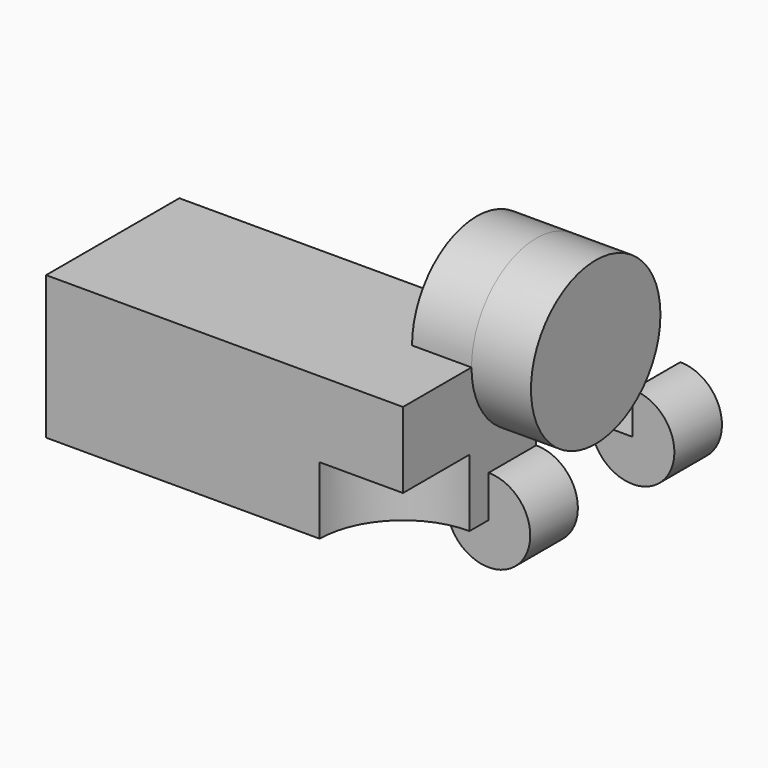
from build123d import *

# Parameters (mm, degrees)
F0_W          = 150
F0_H          = 60.1475536823
F1_DEPTH      = 70
F2_R          = 35
F3_DEPTH      = 28.3
F5_DEPTH      = 25
F6_R          = 34.0015440337
F7_DEPTH      = 25
F7_DEPTH_BACK = 25


with BuildPart() as f1:
    # F0 (on Front) → F1 (new body)
    with BuildSketch(Plane.XZ):
        Rectangle(F0_W, F0_H)
    extrude(amount=F1_DEPTH)

    # F2 (on face) → F3 (cut)
    with BuildSketch(Plane(origin=(0, 0, -30.0737768412), x_dir=(1, 0, 0), z_dir=(0, 0, -1))):
        with Locations((75, 70)):
            Circle(F2_R)
    extrude(amount=-F3_DEPTH, mode=Mode.SUBTRACT)

    # F6 (on face) → F7 (join, two sides)
    with BuildSketch(Plane.YZ.offset(75)) as f7_sk:
        with Locations((0, 30.0737768412)):
            Circle(F6_R)
    extrude(amount=F7_DEPTH)
    extrude(f7_sk.sketch, amount=-F7_DEPTH_BACK)


with BuildPart() as f5:
    # F4 (on face) → F5 (new body)
    with BuildSketch(Plane(origin=(0, 0, 0), x_dir=(-1, 0, 0), z_dir=(0, 1, 0))):
        with BuildLine():
            ThreePointArc((-75, -12.5737768412), (-87.3743686708, -42.4481455119), (-57.5, -30.0737768412))
            Line((-57.5, -30.0737768412), (-75, -30.0737768412))
            Line((-75, -30.0737768412), (-75, -12.5737768412))
        make_face()
    extrude(amount=-F5_DEPTH)


with BuildPart() as f8_1:
    # F8: copy of F5
    add(f5.part.moved(Location((0, 75.7, 0))))


solid = Compound([f1.part, f5.part, f8_1.part])
